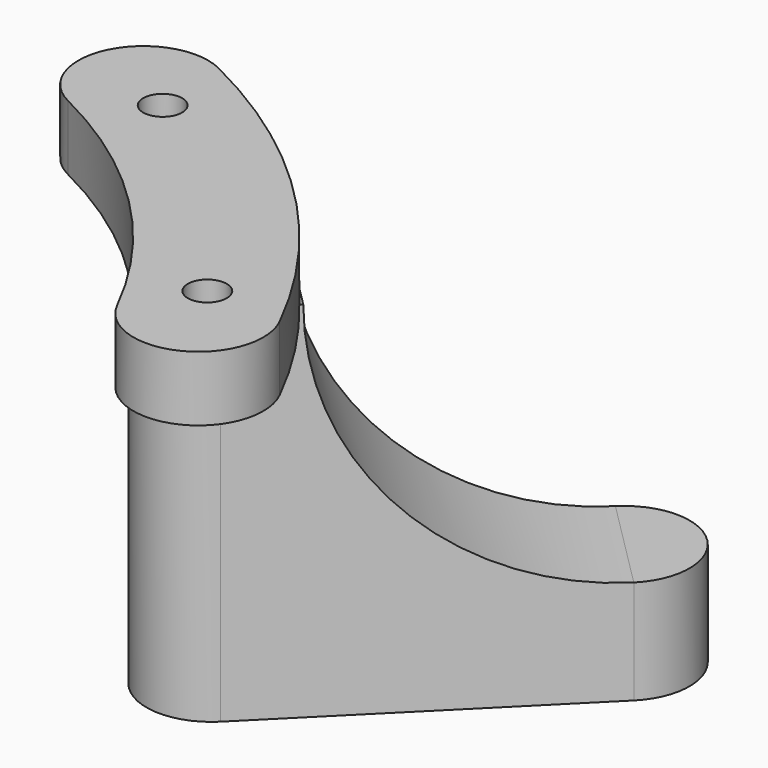
from build123d import *

# Parameters (mm, degrees)
SKETCH014_R             = 1.5
PAD007_DEPTH            = 5
SKETCH015_R             = 5
PAD008_DEPTH            = 33
PAD009_DEPTH            = 5
PAD010_DEPTH            = 8
BODY004_PLACEMENT_ANGLE = 45


with BuildPart() as part:
    # Sketch014 → Pad007 (new body)
    with BuildSketch(Plane.XY):
        with BuildLine():
            ThreePointArc((49.280643, -16.595729), (52, 9e-06), (49.280638, 16.595745))
            ThreePointArc((49.280638, 16.595745), (42.946367, 19.738522), (39.803594, 13.404249))
            ThreePointArc((39.803592, -13.404255), (42, -3e-06), (39.803594, 13.404249))
            ThreePointArc((39.803592, -13.404255), (42.946378, -19.738526), (49.280643, -16.595729))
        make_face()
        with Locations((45.398514, 12.164495)):
            Circle(SKETCH014_R, mode=Mode.SUBTRACT)
        with Locations((45.398514, -12.164495)):
            Circle(SKETCH014_R, mode=Mode.SUBTRACT)
    extrude(amount=-PAD007_DEPTH)

    # Sketch015 → Pad008 (join)
    with BuildSketch(Plane.XY):
        with Locations((47, 0)):
            Circle(SKETCH015_R)
    extrude(amount=-PAD008_DEPTH)

    # Sketch016 → Pad009 (join, symmetric)
    with BuildSketch(Plane.XZ):
        with BuildLine():
            Line((47, -5), (47, -33))
            Line((47, -33), (72, -33))
            Line((72, -33), (72, -25))
            ThreePointArc((52, -5), (57.857864, -19.142136), (72, -25))
            Line((52, -5), (47, -5))
        make_face()
    extrude(amount=PAD009_DEPTH, both=True)

    # Sketch017 → Pad010 (join)
    with BuildSketch(Plane.XY.offset(-33)):
        with BuildLine():
            ThreePointArc((72, -5), (77, 0), (72, 5))
            Line((72, 5), (72, -5))
        make_face()
    extrude(amount=PAD010_DEPTH)


with BuildPart() as part_1:
    # Body004 placement: moved
    add(part.part.moved(Location((0, 0, 23))).rotate(Axis((0, 0, 23), (0, 0, 1)), BODY004_PLACEMENT_ANGLE))


solid = part_1.part
